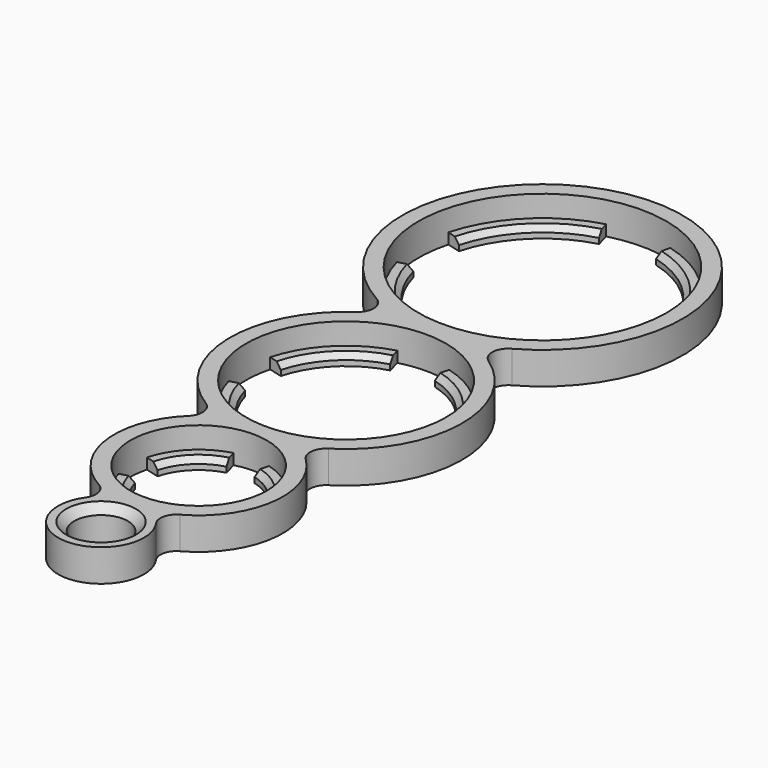
from build123d import *

# Parameters (mm, degrees)
F0_R      = 26.1
F0_R_2    = 23.1
F1_DEPTH  = 6
F3_DEPTH  = 2
F4_SIZE   = 1
F5_R      = 21.615
F5_R_2    = 18.615
F6_DEPTH  = 6
F8_DEPTH  = 2
F9_SIZE   = 1
F10_R     = 15.7
F10_R_2   = 12.7
F11_DEPTH = 6
F13_DEPTH = 2
F14_SIZE  = 1
F15_R     = 8
F15_R_2   = 5
F16_DEPTH = 6
F17_SIZE  = 1.5
F18_R     = 3


with BuildPart() as f1:
    # F0 (on Top) → F1 (new body)
    with BuildSketch(Plane.XY):
        with Locations((0, 234.9011148272)):
            Circle(F0_R)
        with Locations((0, 234.9011148272)):
            Circle(F0_R_2, mode=Mode.SUBTRACT)
    extrude(amount=F1_DEPTH)

    # F2 (on Top) → F3 (join)
    with BuildSketch(Plane.XY):
        with BuildLine():
            ThreePointArc((-19.8014794389, 240.2069052518), (-14.4956890143, 249.3968038415), (-5.3057904246, 254.7025942661))
            Line((-5.3057904246, 254.7025942661), (-5.9787199419, 257.2140014145))
            ThreePointArc((-5.9787199419, 257.2140014145), (-16.3341666454, 251.2352814726), (-22.3128865873, 240.8798347691))
            Line((-22.3128865873, 240.8798347691), (-19.8014794389, 240.2069052518))
        make_face()
        with BuildLine():
            ThreePointArc((5.3057904246, 254.7025942661), (14.4956890143, 249.3968038415), (19.8014794389, 240.2069052518))
            Line((19.8014794389, 240.2069052518), (22.3128865873, 240.8798347691))
            ThreePointArc((22.3128865873, 240.8798347691), (16.3341666454, 251.2352814726), (5.9787199419, 257.2140014145))
            Line((5.9787199419, 257.2140014145), (5.3057904246, 254.7025942661))
        make_face()
        with BuildLine():
            Line((22.3128865873, 228.9223948853), (19.8014794389, 229.5953244026))
            ThreePointArc((19.8014794389, 229.5953244026), (14.4956890143, 220.4054258129), (5.3057904246, 215.0996353883))
            Line((5.3057904246, 215.0996353883), (5.9787199419, 212.5882282399))
            ThreePointArc((5.9787199419, 212.5882282399), (16.3341666454, 218.5669481818), (22.3128865873, 228.9223948853))
        make_face()
        with BuildLine():
            Line((-5.9787199419, 212.5882282399), (-5.3057904246, 215.0996353883))
            ThreePointArc((-5.3057904246, 215.0996353883), (-14.4956890143, 220.4054258129), (-19.8014794389, 229.5953244026))
            Line((-19.8014794389, 229.5953244026), (-22.3128865873, 228.9223948853))
            ThreePointArc((-22.3128865873, 228.9223948853), (-16.3341666454, 218.5669481818), (-5.9787199419, 212.5882282399))
        make_face()
    extrude(amount=F3_DEPTH)

    # F4
    f4_edges = [f1.edges().sort_by_distance(p)[0] for p in [
        (-14.495689, 249.396804, 2),
        (14.495689, 249.396804, 2),
        (14.495689, 220.405426, 2),
        (-14.495689, 220.405426, 2),
    ]]
    chamfer(f4_edges, length=F4_SIZE)

    # F5 (on Top) → F6 (join)
    with BuildSketch(Plane.XY):
        with Locations((0, 189.1861148272)):
            Circle(F5_R)
        with Locations((0, 189.1861148272)):
            Circle(F5_R_2, mode=Mode.SUBTRACT)
    extrude(amount=F6_DEPTH)

    # F7 (on Top) → F8 (join)
    with BuildSketch(Plane.XY):
        with BuildLine():
            ThreePointArc((-15.469302108, 193.3311018345), (-11.3243151007, 200.5104299279), (-4.1449870073, 204.6554169352))
            Line((-4.1449870073, 204.6554169352), (-4.8179165246, 207.1668240836))
            ThreePointArc((-4.8179165246, 207.1668240836), (-13.1627927318, 202.348907559), (-17.9807092564, 194.0040313518))
            Line((-17.9807092564, 194.0040313518), (-15.469302108, 193.3311018345))
        make_face()
        with BuildLine():
            Line((4.8179165246, 207.1668240836), (4.1449870073, 204.6554169352))
            ThreePointArc((4.1449870073, 204.6554169352), (11.3243151007, 200.5104299279), (15.469302108, 193.3311018345))
            Line((15.469302108, 193.3311018345), (17.9807092564, 194.0040313518))
            ThreePointArc((17.9807092564, 194.0040313518), (13.1627927318, 202.348907559), (4.8179165246, 207.1668240836))
        make_face()
        with BuildLine():
            Line((17.9807092564, 184.3681983026), (15.469302108, 185.0411278199))
            ThreePointArc((15.469302108, 185.0411278199), (11.3243151007, 177.8617997265), (4.1449870073, 173.7168127192))
            Line((4.1449870073, 173.7168127192), (4.8179165246, 171.2054055708))
            ThreePointArc((4.8179165246, 171.2054055708), (13.1627927318, 176.0233220954), (17.9807092564, 184.3681983026))
        make_face()
        with BuildLine():
            Line((-4.8179165246, 171.2054055708), (-4.1449870073, 173.7168127192))
            ThreePointArc((-4.1449870073, 173.7168127192), (-11.3243151007, 177.8617997265), (-15.469302108, 185.0411278199))
            Line((-15.469302108, 185.0411278199), (-17.9807092564, 184.3681983026))
            ThreePointArc((-17.9807092564, 184.3681983026), (-13.1627927318, 176.0233220954), (-4.8179165246, 171.2054055708))
        make_face()
    extrude(amount=F8_DEPTH)

    # F9
    f9_edges = [f1.edges().sort_by_distance(p)[0] for p in [
        (-11.324315, 200.51043, 2),
        (11.324315, 200.51043, 2),
        (11.324315, 177.8618, 2),
        (-11.324315, 177.8618, 2),
    ]]
    chamfer(f9_edges, length=F9_SIZE)

    # F10 (on Top) → F11 (join)
    with BuildSketch(Plane.XY):
        with Locations((0, 154.8711148272)):
            Circle(F10_R)
        with Locations((0, 154.8711148272)):
            Circle(F10_R_2, mode=Mode.SUBTRACT)
    extrude(amount=F11_DEPTH)

    # F12 (on Top) → F13 (join)
    with BuildSketch(Plane.XY):
        with BuildLine():
            Line((-2.6140723555, 164.6269656727), (-3.2870018728, 167.1383728211))
            ThreePointArc((-3.2870018728, 167.1383728211), (-8.9802561211, 163.8513709483), (-12.2672579939, 158.1581167))
            Line((-12.2672579939, 158.1581167), (-9.7558508455, 157.4851871827))
            ThreePointArc((-9.7558508455, 157.4851871827), (-7.14177849, 162.0128933172), (-2.6140723555, 164.6269656727))
        make_face()
        with BuildLine():
            Line((3.2870018728, 167.1383728211), (2.6140723555, 164.6269656727))
            ThreePointArc((2.6140723555, 164.6269656727), (7.14177849, 162.0128933172), (9.7558508455, 157.4851871827))
            Line((9.7558508455, 157.4851871827), (12.2672579939, 158.1581167))
            ThreePointArc((12.2672579939, 158.1581167), (8.9802561211, 163.8513709483), (3.2870018728, 167.1383728211))
        make_face()
        with BuildLine():
            Line((12.2672579939, 151.5841129544), (9.7558508455, 152.2570424717))
            ThreePointArc((9.7558508455, 152.2570424717), (7.14177849, 147.7293363372), (2.6140723555, 145.1152639817))
            Line((2.6140723555, 145.1152639817), (3.2870018728, 142.6038568333))
            ThreePointArc((3.2870018728, 142.6038568333), (8.9802561211, 145.8908587061), (12.2672579939, 151.5841129544))
        make_face()
        with BuildLine():
            Line((-3.2870018728, 142.6038568333), (-2.6140723555, 145.1152639817))
            ThreePointArc((-2.6140723555, 145.1152639817), (-7.14177849, 147.7293363372), (-9.7558508455, 152.2570424717))
            Line((-9.7558508455, 152.2570424717), (-12.2672579939, 151.5841129544))
            ThreePointArc((-12.2672579939, 151.5841129544), (-8.9802561211, 145.8908587061), (-3.2870018728, 142.6038568333))
        make_face()
    extrude(amount=F13_DEPTH)

    # F14
    f14_edges = [f1.edges().sort_by_distance(p)[0] for p in [
        (-7.141778, 162.012893, 2),
        (7.141778, 162.012893, 2),
        (7.141778, 147.729336, 2),
        (-7.141778, 147.729336, 2),
    ]]
    chamfer(f14_edges, length=F14_SIZE)

    # F15 (on Top) → F16 (join)
    with BuildSketch(Plane.XY):
        with Locations((0, 132.1710638065)):
            Circle(F15_R)
        with Locations((0, 132.1710638065)):
            Circle(F15_R_2, mode=Mode.SUBTRACT)
    extrude(amount=F16_DEPTH)

    # F17
    f17_edges = [f1.edges().sort_by_distance(p)[0] for p in [
        (-5, 132.171064, 6),
    ]]
    chamfer(f17_edges, length=F17_SIZE)

    # F18
    f18_edges = [f1.edges().sort_by_distance(p)[0] for p in [
        (-6.801865, 209.703007, 3),
        (6.801865, 209.703007, 3),
        (7.219852, 168.812554, 3),
        (-7.219852, 168.812554, 3),
        (3.20387, 139.501495, 3),
        (-3.20387, 139.501495, 3),
    ]]
    fillet(f18_edges, radius=F18_R)


solid = f1.part
